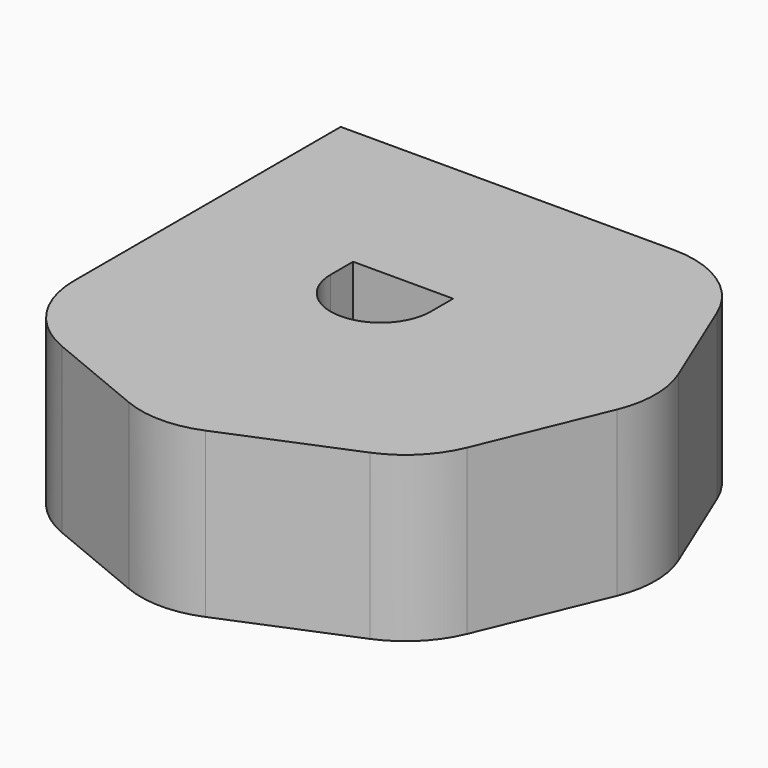
from build123d import *

# Parameters (mm, degrees)
F1_DEPTH = 10.414
F3_DEPTH = 1.27
F4_R     = 6.35
F6_ANGLE = 180


with BuildPart() as f1:
    # F0 (on Top) → F1 (new body)
    with BuildSketch(Plane.XY):
        Polygon((0, 17.960512), (-12.7, 12.7), (-12.7, -12.7), (12.7, -12.7), (17.960512, 0), (12.7, 12.7), align=None)
        with BuildLine():
            ThreePointArc((-3.175, 0), (0, 3.175), (3.175, 0))
            Line((3.175, 0), (3.175, -1.778))
            Line((3.175, -1.778), (-3.175, -1.778))
            Line((-3.175, -1.778), (-3.175, 0))
        make_face(mode=Mode.SUBTRACT)
    extrude(amount=F1_DEPTH)

    # F2 (on face) → F3 (join)
    with BuildSketch(Plane.XY.offset(10.414)):
        with BuildLine():
            ThreePointArc((3.175, 0), (0, 3.175), (-3.175, 0))
            Line((-3.175, 0), (-3.175, -1.778))
            Line((-3.175, -1.778), (3.175, -1.778))
            Line((3.175, -1.778), (3.175, 0))
        make_face()
    extrude(amount=-F3_DEPTH)

    # F4
    f4_edges = [f1.edges().sort_by_distance(p)[0] for p in [
        (12.7, -12.7, 5.207),
        (17.960512, 0, 5.207),
        (12.7, 12.7, 5.207),
        (0, 17.960512, 5.207),
        (-12.7, 12.7, 5.207),
    ]]
    fillet(f4_edges, radius=F4_R)


with BuildPart() as f1_1:
    # F6: moved
    add(f1.part.rotate(Axis((10.708487, 0, 0), (1, 0, 0)), F6_ANGLE))


solid = f1_1.part
